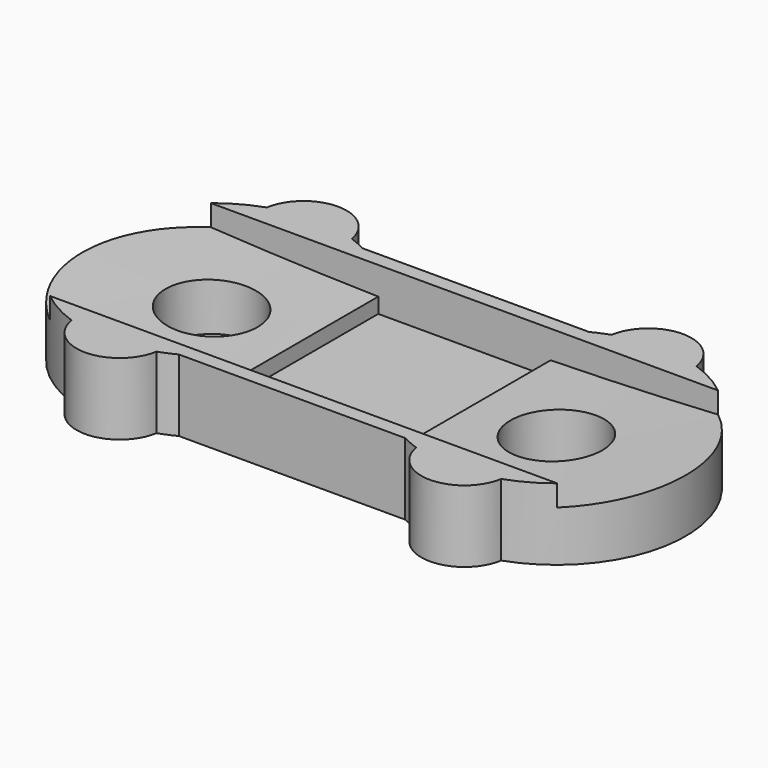
from build123d import *

# Parameters (mm, degrees)
BOX469_W               = 8
BOX469_H               = 8
BOX469_DEPTH           = 1
BOX468_W               = 26
BOX468_H               = 13
BOX468_DEPTH           = 1.5
BOX467_W               = 6
BOX467_H               = 7
BOX467_DEPTH           = 3
CYLINDER691_R          = 150
CYLINDER691_DEPTH      = 7
CYLINDER691_ROLL_ANGLE = 90
CYLINDER689_R          = 1.6
CYLINDER689_DEPTH      = 10
CYLINDER690_R          = 1.6
CYLINDER690_DEPTH      = 10
BOX466_W               = 10
BOX466_H               = 10
BOX466_DEPTH           = 10
CYLINDER688_R          = 1.5
CYLINDER688_DEPTH      = 4
CUT576_PLACEMENT_ANGLE = 180
BOX465_W               = 10
BOX465_H               = 10
BOX465_DEPTH           = 10
CYLINDER687_R          = 1.5
CYLINDER687_DEPTH      = 4
CUT575_PLACEMENT_ANGLE = 180
BOX464_W               = 10
BOX464_H               = 10
BOX464_DEPTH           = 10
CYLINDER686_R          = 1.5
CYLINDER686_DEPTH      = 4
BOX463_W               = 10
BOX463_H               = 10
BOX463_DEPTH           = 10
CYLINDER685_R          = 1.5
CYLINDER685_DEPTH      = 4
BOX461_W               = 12
BOX461_H               = 0.5
BOX461_DEPTH           = 1
BOX462_W               = 12
BOX462_H               = 0.5
BOX462_DEPTH           = 1
BOX460_W               = 12
BOX460_H               = 1
BOX460_DEPTH           = 4
BOX459_W               = 12
BOX459_H               = 1
BOX459_DEPTH           = 4
CYLINDER684_R          = 4.5
CYLINDER684_DEPTH      = 4
CYLINDER683_R          = 4.5
CYLINDER683_DEPTH      = 4
BOX458_W               = 12
BOX458_H               = 8
BOX458_DEPTH           = 1


with BuildPart() as box469:
    # Box469 → Box469 (new body)
    with BuildSketch(Plane(origin=(2, -4, 0), x_dir=(1, 0, 0), z_dir=(0, 0, 1))):
        with Locations((4, 4)):
            Rectangle(BOX469_W, BOX469_H)
    extrude(amount=BOX469_DEPTH)


with BuildPart() as box468:
    # Box468 → Box468 (new body)
    with BuildSketch(Plane(origin=(-6, -6, 0), x_dir=(1, 0, 0), z_dir=(0, 0, 1))):
        with Locations((13, 6.5)):
            Rectangle(BOX468_W, BOX468_H)
    extrude(amount=BOX468_DEPTH)


with BuildPart() as box467:
    # Box467 → Box467 (new body)
    with BuildSketch(Plane(origin=(3, -3.5, 1), x_dir=(1, 0, 0), z_dir=(0, 0, 1))):
        with Locations((3, 3.5)):
            Rectangle(BOX467_W, BOX467_H)
    extrude(amount=BOX467_DEPTH)


with BuildPart() as cylinder910:
    # Cylinder691 → Cylinder691 (new body)
    with BuildSketch(Plane.XY):
        Circle(CYLINDER691_R)
    extrude(amount=CYLINDER691_DEPTH)


with BuildPart() as cylinder910_1:
    # Cylinder691 roll: moved
    add(cylinder910.part.rotate(Axis((0, 0, 0), (1, 0, 0)), CYLINDER691_ROLL_ANGLE))


with BuildPart() as cylinder910_2:
    # Cylinder691 placement: moved
    add(cylinder910_1.part.moved(Location((6, 3.5, 153))))


with BuildPart() as cylinder908:
    # Cylinder689 → Cylinder689 (new body)
    with BuildSketch(Plane.XY):
        Circle(CYLINDER689_R)
    extrude(amount=CYLINDER689_DEPTH)


with BuildPart() as fusion458:
    # Cylinder690 → Cylinder690 (new body)
    with BuildSketch(Plane(origin=(12, 0, 0), x_dir=(1, 0, 0), z_dir=(0, 0, 1))):
        Circle(CYLINDER690_R)
    extrude(amount=CYLINDER690_DEPTH)

    # Fusion458: union Cylinder908
    add(cylinder908.part)


with BuildPart() as box466:
    # Box466 → Box466 (new body)
    with BuildSketch(Plane(origin=(-5, 0, 0), x_dir=(1, 0, 0), z_dir=(0, 0, 1))):
        with Locations((5, 5)):
            Rectangle(BOX466_W, BOX466_H)
    extrude(amount=BOX466_DEPTH)


with BuildPart() as cut864:
    # Cylinder688 → Cylinder688 (new body)
    with BuildSketch(Plane.XY):
        Circle(CYLINDER688_R)
    extrude(amount=CYLINDER688_DEPTH)

    # Cut576: cut Box466
    add(box466.part, mode=Mode.SUBTRACT)


with BuildPart() as cut864_1:
    # Cut576 placement: moved
    add(cut864.part.moved(Location((12, 4, 0))).rotate(Axis((12, 4, 0), (0, 0, 1)), CUT576_PLACEMENT_ANGLE))


with BuildPart() as box465:
    # Box465 → Box465 (new body)
    with BuildSketch(Plane(origin=(-5, 0, 0), x_dir=(1, 0, 0), z_dir=(0, 0, 1))):
        with Locations((5, 5)):
            Rectangle(BOX465_W, BOX465_H)
    extrude(amount=BOX465_DEPTH)


with BuildPart() as cut863:
    # Cylinder687 → Cylinder687 (new body)
    with BuildSketch(Plane.XY):
        Circle(CYLINDER687_R)
    extrude(amount=CYLINDER687_DEPTH)

    # Cut575: cut Box465
    add(box465.part, mode=Mode.SUBTRACT)


with BuildPart() as cut863_1:
    # Cut575 placement: moved
    add(cut863.part.moved(Location((0, 4, 0))).rotate(Axis((0, 4, 0), (0, 0, 1)), CUT575_PLACEMENT_ANGLE))


with BuildPart() as box464:
    # Box464 → Box464 (new body)
    with BuildSketch(Plane(origin=(-5, 0, 0), x_dir=(1, 0, 0), z_dir=(0, 0, 1))):
        with Locations((5, 5)):
            Rectangle(BOX464_W, BOX464_H)
    extrude(amount=BOX464_DEPTH)


with BuildPart() as cut862:
    # Cylinder686 → Cylinder686 (new body)
    with BuildSketch(Plane.XY):
        Circle(CYLINDER686_R)
    extrude(amount=CYLINDER686_DEPTH)

    # Cut574: cut Box464
    add(box464.part, mode=Mode.SUBTRACT)


with BuildPart() as cut862_1:
    # Cut574 placement: moved
    add(cut862.part.moved(Location((12, -4, 0))))


with BuildPart() as box463:
    # Box463 → Box463 (new body)
    with BuildSketch(Plane(origin=(-5, 0, 0), x_dir=(1, 0, 0), z_dir=(0, 0, 1))):
        with Locations((5, 5)):
            Rectangle(BOX463_W, BOX463_H)
    extrude(amount=BOX463_DEPTH)


with BuildPart() as cut861:
    # Cylinder685 → Cylinder685 (new body)
    with BuildSketch(Plane.XY):
        Circle(CYLINDER685_R)
    extrude(amount=CYLINDER685_DEPTH)

    # Cut573: cut Box463
    add(box463.part, mode=Mode.SUBTRACT)


with BuildPart() as cut861_1:
    # Cut573 placement: moved
    add(cut861.part.moved(Location((0, -4, 0))))


with BuildPart() as box461:
    # Box461 → Box461 (new body)
    with BuildSketch(Plane(origin=(0, 3.5, 3), x_dir=(1, 0, 0), z_dir=(0, 0, 1))):
        with Locations((6, 0.25)):
            Rectangle(BOX461_W, BOX461_H)
    extrude(amount=BOX461_DEPTH)


with BuildPart() as box462:
    # Box462 → Box462 (new body)
    with BuildSketch(Plane(origin=(0, -4, 3), x_dir=(1, 0, 0), z_dir=(0, 0, 1))):
        with Locations((6, 0.25)):
            Rectangle(BOX462_W, BOX462_H)
    extrude(amount=BOX462_DEPTH)


with BuildPart() as box460:
    # Box460 → Box460 (new body)
    with BuildSketch(Plane(origin=(0, 3, 0), x_dir=(1, 0, 0), z_dir=(0, 0, 1))):
        with Locations((6, 0.5)):
            Rectangle(BOX460_W, BOX460_H)
    extrude(amount=BOX460_DEPTH)


with BuildPart() as box459:
    # Box459 → Box459 (new body)
    with BuildSketch(Plane(origin=(0, -4, 0), x_dir=(1, 0, 0), z_dir=(0, 0, 1))):
        with Locations((6, 0.5)):
            Rectangle(BOX459_W, BOX459_H)
    extrude(amount=BOX459_DEPTH)


with BuildPart() as cylinder801:
    # Cylinder684 → Cylinder684 (new body)
    with BuildSketch(Plane(origin=(12, 0, 0), x_dir=(1, 0, 0), z_dir=(0, 0, 1))):
        Circle(CYLINDER684_R)
    extrude(amount=CYLINDER684_DEPTH)


with BuildPart() as cylinder800:
    # Cylinder683 → Cylinder683 (new body)
    with BuildSketch(Plane.XY):
        Circle(CYLINDER683_R)
    extrude(amount=CYLINDER683_DEPTH)


with BuildPart() as obj1:
    # Box458 → Box458 (new body)
    with BuildSketch(Plane(origin=(0, -4, 0), x_dir=(1, 0, 0), z_dir=(0, 0, 1))):
        with Locations((6, 4)):
            Rectangle(BOX458_W, BOX458_H)
    extrude(amount=BOX458_DEPTH)

    # Fusion454: union Cylinder801, Cylinder800
    add(cylinder801.part)
    add(cylinder800.part)

    # Fusion455: union Box460, Box459
    add(box460.part)
    add(box459.part)

    # Fusion456: union Box461, Box462
    add(box461.part)
    add(box462.part)

    # Fusion457: union Cut864, Cut863, Cut862, Cut861
    add(cut864_1.part)
    add(cut863_1.part)
    add(cut862_1.part)
    add(cut861_1.part)

    # Cut577: cut Fusion458
    add(fusion458.part, mode=Mode.SUBTRACT)

    # Cut578: cut Cylinder910
    add(cylinder910_2.part, mode=Mode.SUBTRACT)

    # Cut579: cut Box467
    add(box467.part, mode=Mode.SUBTRACT)

    # Cut580: cut Box468
    add(box468.part, mode=Mode.SUBTRACT)


with BuildPart() as obj1_1:
    # Cut580 placement: moved
    add(obj1.part.moved(Location((0, 0, -1.5))))

    # Fusion459: union Box469
    add(box469.part)


with BuildPart() as obj1_2:
    # Fusion459 placement: moved
    add(obj1_1.part.moved(Location((92, 124, -42.5))))


solid = obj1_2.part
